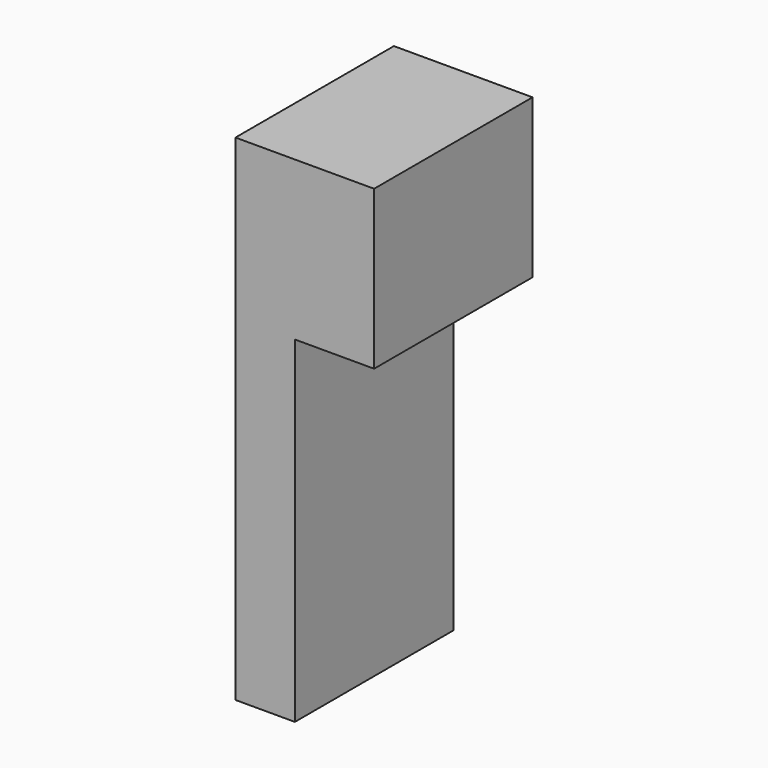
from build123d import *

# Parameters (mm, degrees)
F0_W     = 9.525
F0_H     = 79.375
F1_DEPTH = 31.75
F2_W     = 31.75
F2_H     = 25.4
F3_DEPTH = 12.7


with BuildPart() as f1:
    # F0 (on Front) → F1 (new body)
    with BuildSketch(Plane.XZ):
        with Locations((-4.7625, 39.6875)):
            Rectangle(F0_W, F0_H)
    extrude(amount=-F1_DEPTH)

    # F2 (on face) → F3 (join)
    with BuildSketch(Plane.YZ):
        with Locations((15.875, 66.675)):
            Rectangle(F2_W, F2_H)
    extrude(amount=F3_DEPTH)


solid = f1.part
